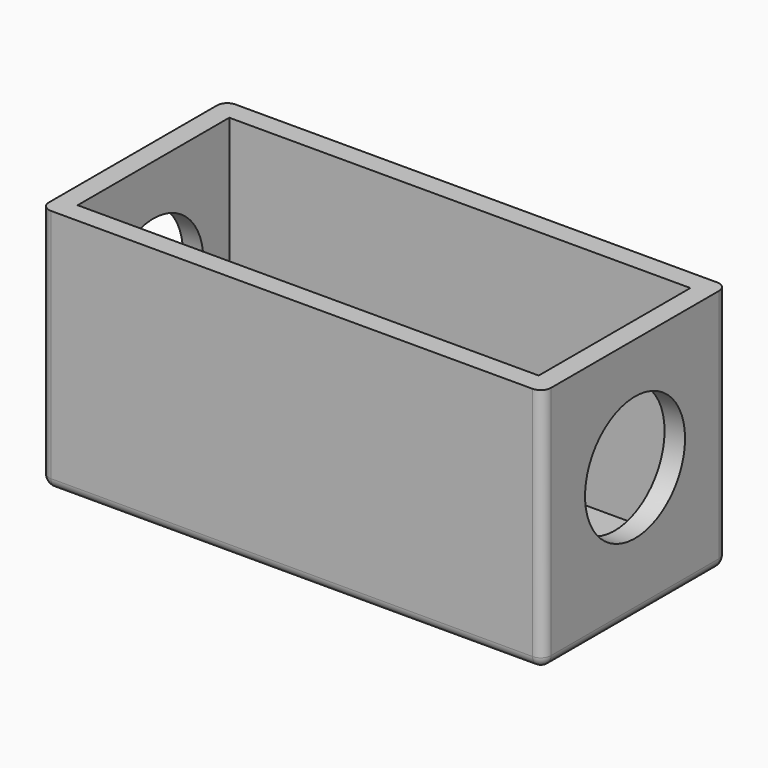
from build123d import *

# Parameters (mm, degrees)
F0_W     = 49
F0_H     = 22.5
F0_W_2   = 45
F0_H_2   = 18.5
F1_DEPTH = 22
F2_W     = 49
F2_H     = 22.5
F3_DEPTH = 2
F4_R     = 6.1
F5_DEPTH = 49.001
F6_R     = 1


with BuildPart() as f1:
    # F0 (on Top) → F1 (new body)
    with BuildSketch(Plane.XY):
        Rectangle(F0_W, F0_H)
        Rectangle(F0_W_2, F0_H_2, mode=Mode.SUBTRACT)
    extrude(amount=F1_DEPTH)

    # F2 (on face) → F3 (join)
    with BuildSketch(Plane(origin=(0, 0, 0), x_dir=(1, 0, 0), z_dir=(0, 0, -1))):
        Rectangle(F2_W, F2_H)
    extrude(amount=F3_DEPTH)

    # F4 (on face) → F5 (cut, through all)
    with BuildSketch(Plane.YZ.offset(24.5)):
        with Locations((0, 11)):
            Circle(F4_R)
    extrude(amount=-F5_DEPTH, mode=Mode.SUBTRACT)

    # F6
    f6_edges = [f1.edges().sort_by_distance(p)[0] for p in [
        (24.5, -11.25, 10),
        (24.5, 11.25, 10),
        (24.5, 0, -2),
        (0, 11.25, -2),
        (0, -11.25, -2),
        (-24.5, -11.25, 10),
        (-24.5, 0, -2),
        (-24.5, 11.25, 10),
    ]]
    fillet(f6_edges, radius=F6_R)


solid = f1.part
